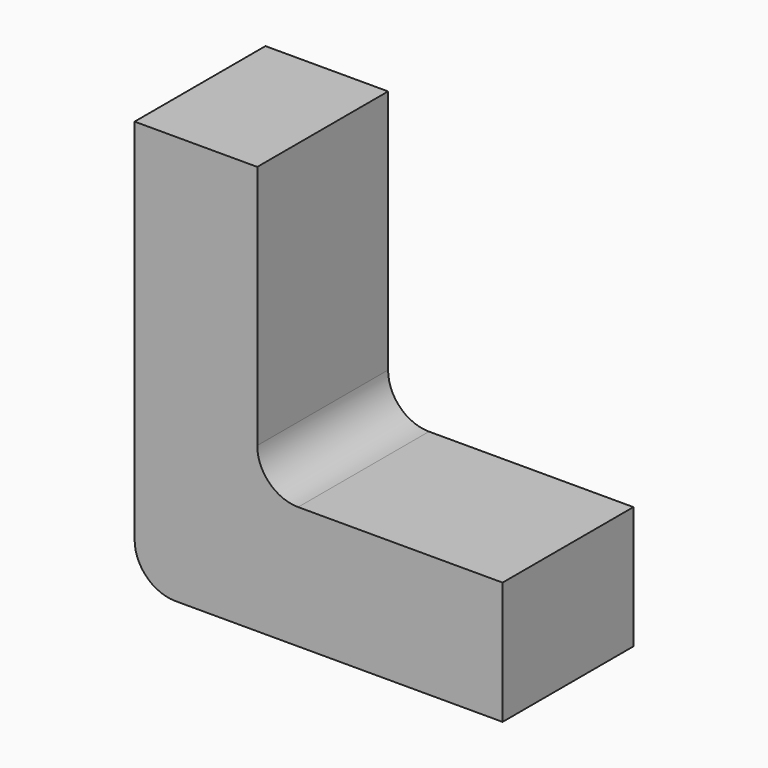
from build123d import *

# Parameters (mm, degrees)
F1_DEPTH = 25.4


with BuildPart() as f1:
    # F0 (on Front) → F1 (new body)
    with BuildSketch(Plane.XZ):
        with BuildLine():
            Line((-6.041198, 29.379623), (-25.091198, 29.379623))
            Line((-25.091198, 29.379623), (-25.091198, -27.770377))
            ThreePointArc((-25.091198, -27.770377), (-23.231327, -32.260505), (-18.741198, -34.120377))
            Line((-18.741198, -34.120377), (32.058802, -34.120377))
            Line((32.058802, -34.120377), (32.058802, -15.070377))
            Line((32.058802, -15.070377), (0.308802, -15.070377))
            ThreePointArc((0.308802, -15.070377), (-4.181327, -13.210505), (-6.041198, -8.720377))
            Line((-6.041198, -8.720377), (-6.041198, 29.379623))
        make_face()
    extrude(amount=F1_DEPTH)


solid = f1.part
